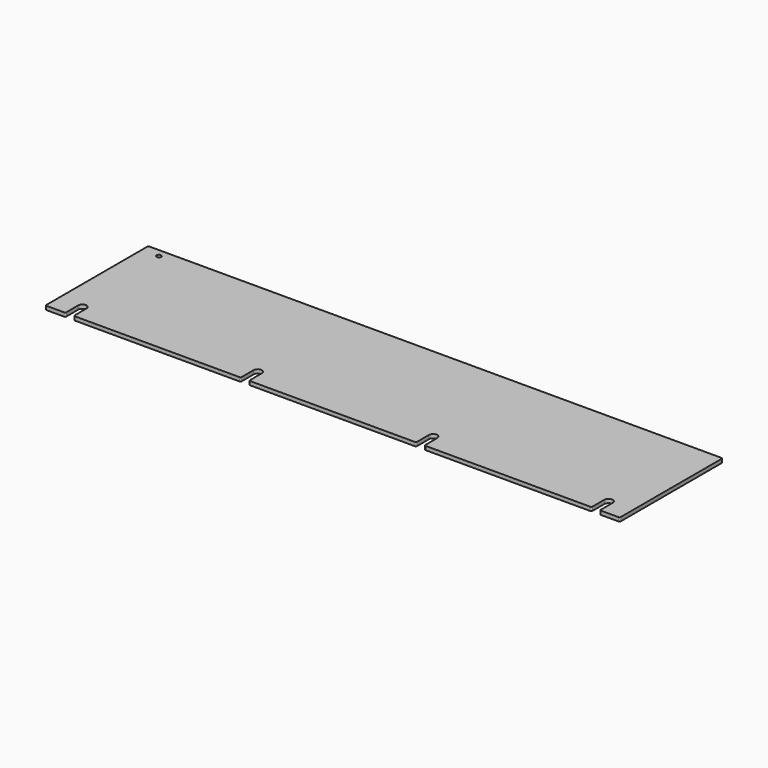
from build123d import *

# Parameters (mm, degrees)
SKETCH_R  = 1.8288
PAD_DEPTH = 3


with BuildPart() as part:
    # Sketch → Pad (new body)
    with BuildSketch(Plane.XY):
        with BuildLine():
            ThreePointArc((-226.0125, 50.8), (-226.719607, 50.507107), (-227.0125, 49.8))
            Line((-227.0125, -49.8), (-227.0125, 49.8))
            ThreePointArc((-227.0125, -49.8), (-226.719607, -50.507107), (-226.0125, -50.8))
            Line((-212.2645, -50.8), (-226.0125, -50.8))
            ThreePointArc((-212.2645, -50.8), (-211.557393, -50.507107), (-211.2645, -49.8))
            Line((-211.2645, -38.1), (-211.2645, -49.8))
            ThreePointArc((-204.6605, -38.1), (-207.9625, -34.798), (-211.2645, -38.1))
            Line((-204.6605, -38.1), (-204.6605, -49.8))
            ThreePointArc((-204.6605, -49.8), (-204.367607, -50.507107), (-203.6605, -50.8))
            Line((-73.622833, -50.8), (-203.6605, -50.8))
            ThreePointArc((-73.622833, -50.8), (-72.915727, -50.507107), (-72.622833, -49.8))
            Line((-72.622833, -38.1), (-72.622833, -49.8))
            ThreePointArc((-66.018833, -38.1), (-69.320833, -34.798), (-72.622833, -38.1))
            Line((-66.018833, -38.1), (-66.018833, -49.8))
            ThreePointArc((-66.018833, -49.8), (-65.72594, -50.507107), (-65.018833, -50.8))
            Line((65.018833, -50.8), (-65.018833, -50.8))
            ThreePointArc((65.018833, -50.8), (65.72594, -50.507107), (66.018833, -49.8))
            Line((66.018833, -38.1), (66.018833, -49.8))
            ThreePointArc((72.622833, -38.1), (69.320833, -34.798), (66.018833, -38.1))
            Line((72.622833, -38.1), (72.622833, -49.8))
            ThreePointArc((72.622833, -49.8), (72.915727, -50.507107), (73.622833, -50.8))
            Line((203.6605, -50.8), (73.622833, -50.8))
            ThreePointArc((203.6605, -50.8), (204.367607, -50.507107), (204.6605, -49.8))
            Line((204.6605, -38.1), (204.6605, -49.8))
            ThreePointArc((211.2645, -38.1), (207.9625, -34.798), (204.6605, -38.1))
            Line((211.2645, -38.1), (211.2645, -49.8))
            ThreePointArc((211.2645, -49.8), (211.557393, -50.507107), (212.2645, -50.8))
            Line((212.2645, -50.8), (226.0125, -50.8))
            ThreePointArc((226.0125, -50.8), (226.719607, -50.507107), (227.0125, -49.8))
            Line((227.0125, 49.8), (227.0125, -49.8))
            ThreePointArc((227.0125, 49.8), (226.719607, 50.507107), (226.0125, 50.8))
            Line((-226.0125, 50.8), (226.0125, 50.8))
        make_face()
        with Locations((-213.5477, 44.45)):
            Circle(SKETCH_R, mode=Mode.SUBTRACT)
    extrude(amount=PAD_DEPTH)


solid = part.part
